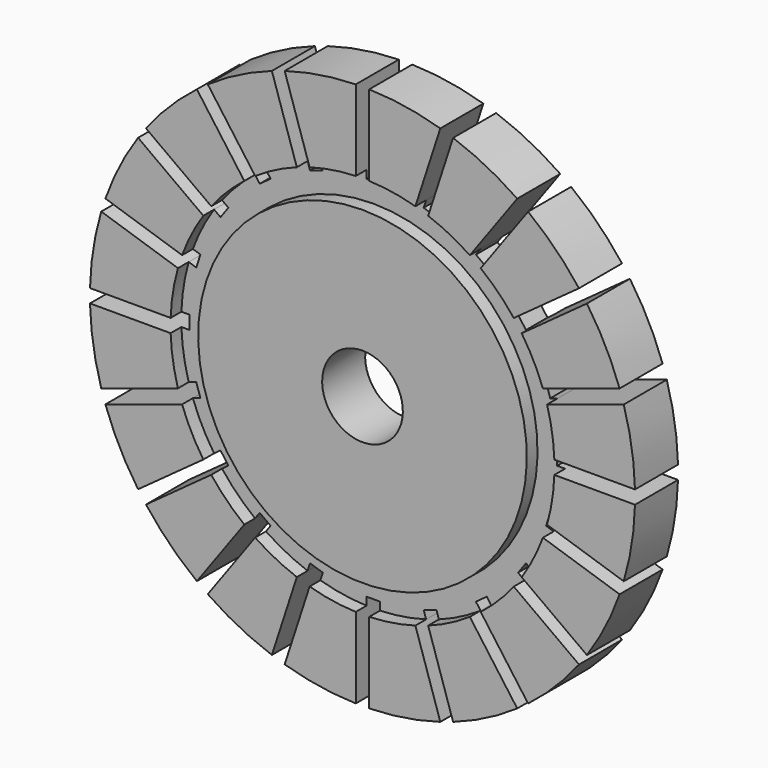
from build123d import *

# Parameters (mm, degrees)
F3_DEPTH = 20


with BuildPart() as f1:
    # F0 (on Right) → F1 (revolve)
    with BuildSketch(Plane.YZ):
        Polygon((-10, 15), (10, 15), (10, 61.11), (5, 61.11), (5, 71.394), (10, 71.394), (10, 101.374), (-10, 101.374), (-10, 71.394), (-5, 71.394), (-5, 61.11), (-10, 61.11), align=None)
    revolve(axis=Axis((0, -27.9462151229, 0), (0, -1, 0)))

    # F2 (on face) → F3 (cut, through all)
    with BuildSketch(Plane.XZ.offset(10)):
        with BuildLine():
            ThreePointArc((2.5, 101.343168867), (1.2500950523, 101.3662919237), (0, 101.374))
            ThreePointArc((0, 101.374), (-1.2500950523, 101.3662919237), (-2.5, 101.343168867))
            Line((-2.5, 101.343168867), (-2.5, 71.3502153886))
            ThreePointArc((-2.5, 71.3502153886), (0, 71.394), (2.5, 71.3502153886))
            Line((2.5, 71.3502153886), (2.5, 101.343168867))
        make_face()
        with BuildLine():
            ThreePointArc((2.5, 71.3502153886), (0, 71.394), (-2.5, 71.3502153886))
            Line((-2.5, 71.3502153886), (-2.5, 68.394))
            Line((-2.5, 68.394), (2.5, 68.394))
            Line((2.5, 68.394), (2.5, 71.3502153886))
        make_face()
        with BuildLine():
            ThreePointArc((31.3262855704, 96.4124043283), (30.1349942007, 96.7913735853), (28.939120153, 97.1556236189))
            Line((28.939120153, 97.1556236189), (19.6707878167, 68.6306297703))
            ThreePointArc((19.6707878167, 68.6306297703), (22.0619592964, 67.8997289244), (24.4260703981, 67.0855447985))
            Line((24.4260703981, 67.0855447985), (33.6944027344, 95.610538647))
            ThreePointArc((33.6944027344, 95.610538647), (32.5128163045, 96.0187723935), (31.3262855704, 96.4124043283))
        make_face()
        with BuildLine():
            ThreePointArc((24.4260703981, 67.0855447985), (22.0619592964, 67.8997289244), (19.6707878167, 68.6306297703))
            Line((19.6707878167, 68.6306297703), (18.7572670225, 65.8191018614))
            Line((18.7572670225, 65.8191018614), (23.512549604, 64.2740168896))
            Line((23.512549604, 64.2740168896), (24.4260703981, 67.0855447985))
        make_face()
        with BuildLine():
            Line((57.5454775947, 83.4578090079), (39.9160618674, 59.1929999324))
            ThreePointArc((39.9160618674, 59.1929999324), (41.9643403022, 57.7589592964), (43.9611468392, 56.254073671))
            Line((43.9611468392, 56.254073671), (61.5905625665, 80.5188827465))
            ThreePointArc((61.5905625665, 80.5188827465), (60.5929582622, 81.2722663953), (59.5861394373, 82.0132907702))
            ThreePointArc((59.5861394373, 82.0132907702), (58.5702619541, 82.741841233), (57.5454775947, 83.4578090079))
        make_face()
        with BuildLine():
            ThreePointArc((43.9611468392, 56.254073671), (41.9643403022, 57.7589592964), (39.9160618674, 59.1929999324))
            Line((39.9160618674, 59.1929999324), (38.1784420594, 56.801371444))
            Line((38.1784420594, 56.801371444), (42.2235270312, 53.8624451825))
            Line((42.2235270312, 53.8624451825), (43.9611468392, 56.254073671))
        make_face()
        with BuildLine():
            Line((80.5188827465, 61.5905625665), (56.254073671, 43.9611468392))
            ThreePointArc((56.254073671, 43.9611468392), (57.7589592964, 41.9643403022), (59.1929999324, 39.9160618674))
            Line((59.1929999324, 39.9160618674), (83.4578090079, 57.5454775947))
            ThreePointArc((83.4578090079, 57.5454775947), (82.7418413651, 58.5702617675), (82.0132910389, 59.5861390675))
            ThreePointArc((82.0132910389, 59.5861390675), (81.2722665319, 60.592958079), (80.5188827465, 61.5905625665))
        make_face()
        with BuildLine():
            ThreePointArc((59.1929999324, 39.9160618674), (57.7589592964, 41.9643403022), (56.254073671, 43.9611468392))
            Line((56.254073671, 43.9611468392), (53.8624451825, 42.2235270312))
            Line((53.8624451825, 42.2235270312), (56.801371444, 38.1784420594))
            Line((56.801371444, 38.1784420594), (59.1929999324, 39.9160618674))
        make_face()
        with BuildLine():
            Line((95.610538647, 33.6944027344), (67.0855447985, 24.4260703981))
            ThreePointArc((67.0855447985, 24.4260703981), (67.8997289244, 22.0619592964), (68.6306297703, 19.6707878167))
            Line((68.6306297703, 19.6707878167), (97.1556236189, 28.939120153))
            ThreePointArc((97.1556236189, 28.939120153), (96.7913735548, 30.1349942986), (96.412404265, 31.3262857653))
            ThreePointArc((96.412404265, 31.3262857653), (96.0187723606, 32.5128164016), (95.610538647, 33.6944027344))
        make_face()
        with BuildLine():
            ThreePointArc((68.6306297703, 19.6707878167), (67.8997289244, 22.0619592964), (67.0855447985, 24.4260703981))
            Line((67.0855447985, 24.4260703981), (64.2740168896, 23.512549604))
            Line((64.2740168896, 23.512549604), (65.8191018614, 18.7572670225))
            Line((65.8191018614, 18.7572670225), (68.6306297703, 19.6707878167))
        make_face()
        with BuildLine():
            Line((101.343168867, 2.5), (71.3502153886, 2.5))
            ThreePointArc((71.3502153886, 2.5), (71.3830530079, 1.2501916945), (71.394, 0))
            ThreePointArc((71.394, 0), (71.3830530079, -1.2501916945), (71.3502153886, -2.5))
            Line((71.3502153886, -2.5), (101.343168867, -2.5))
            ThreePointArc((101.343168867, -2.5), (101.3662919237, -1.2500950523), (101.374, 0))
            ThreePointArc((101.374, 0), (101.3662919237, 1.2500950523), (101.343168867, 2.5))
        make_face()
        with BuildLine():
            ThreePointArc((71.394, 0), (71.3830530079, 1.2501916945), (71.3502153886, 2.5))
            Line((71.3502153886, 2.5), (68.394, 2.5))
            Line((68.394, 2.5), (68.394, -2.5))
            Line((68.394, -2.5), (71.3502153886, -2.5))
            ThreePointArc((71.3502153886, -2.5), (71.3830530079, -1.2501916945), (71.394, 0))
        make_face()
        with BuildLine():
            Line((97.1556236189, -28.939120153), (68.6306297703, -19.6707878167))
            ThreePointArc((68.6306297703, -19.6707878167), (67.8997289244, -22.0619592964), (67.0855447985, -24.4260703981))
            Line((67.0855447985, -24.4260703981), (95.610538647, -33.6944027344))
            ThreePointArc((95.610538647, -33.6944027344), (96.0187714064, -32.5128192195), (96.4124024263, -31.3262914242))
            ThreePointArc((96.4124024263, -31.3262914242), (96.7913726704, -30.1349971392), (97.1556236189, -28.939120153))
        make_face()
        with BuildLine():
            ThreePointArc((67.0855447985, -24.4260703981), (67.8997289244, -22.0619592964), (68.6306297703, -19.6707878167))
            Line((68.6306297703, -19.6707878167), (65.8191018614, -18.7572670225))
            Line((65.8191018614, -18.7572670225), (64.2740168896, -23.512549604))
            Line((64.2740168896, -23.512549604), (67.0855447985, -24.4260703981))
        make_face()
        with BuildLine():
            Line((83.4578090079, -57.5454775947), (59.1929999324, -39.9160618674))
            ThreePointArc((59.1929999324, -39.9160618674), (57.7589592964, -41.9643403022), (56.254073671, -43.9611468392))
            Line((56.254073671, -43.9611468392), (80.5188827465, -61.5905625665))
            ThreePointArc((80.5188827465, -61.5905625665), (81.2722664798, -60.592958149), (82.0132909362, -59.5861392088))
            ThreePointArc((82.0132909362, -59.5861392088), (82.7418413147, -58.5702618388), (83.4578090079, -57.5454775947))
        make_face()
        with BuildLine():
            ThreePointArc((56.254073671, -43.9611468392), (57.7589592964, -41.9643403022), (59.1929999324, -39.9160618674))
            Line((59.1929999324, -39.9160618674), (56.801371444, -38.1784420594))
            Line((56.801371444, -38.1784420594), (53.8624451825, -42.2235270312))
            Line((53.8624451825, -42.2235270312), (56.254073671, -43.9611468392))
        make_face()
        with BuildLine():
            Line((61.5905625665, -80.5188827465), (43.9611468392, -56.254073671))
            ThreePointArc((43.9611468392, -56.254073671), (41.9643403022, -57.7589592964), (39.9160618674, -59.1929999324))
            Line((39.9160618674, -59.1929999324), (57.5454775947, -83.4578090079))
            ThreePointArc((57.5454775947, -83.4578090079), (58.5702621406, -82.741841101), (59.5861398072, -82.0132905015))
            ThreePointArc((59.5861398072, -82.0132905015), (60.5929584455, -81.2722662587), (61.5905625665, -80.5188827465))
        make_face()
        with BuildLine():
            ThreePointArc((39.9160618674, -59.1929999324), (41.9643403022, -57.7589592964), (43.9611468392, -56.254073671))
            Line((43.9611468392, -56.254073671), (42.2235270312, -53.8624451825))
            Line((42.2235270312, -53.8624451825), (38.1784420594, -56.801371444))
            Line((38.1784420594, -56.801371444), (39.9160618674, -59.1929999324))
        make_face()
        with BuildLine():
            Line((33.6944027344, -95.610538647), (24.4260703981, -67.0855447985))
            ThreePointArc((24.4260703981, -67.0855447985), (22.0619592964, -67.8997289244), (19.6707878167, -68.6306297703))
            Line((19.6707878167, -68.6306297703), (28.939120153, -97.1556236189))
            ThreePointArc((28.939120153, -97.1556236189), (30.1349942986, -96.7913735548), (31.3262857653, -96.412404265))
            ThreePointArc((31.3262857653, -96.412404265), (32.5128164016, -96.0187723606), (33.6944027344, -95.610538647))
        make_face()
        with BuildLine():
            ThreePointArc((19.6707878167, -68.6306297703), (22.0619592964, -67.8997289244), (24.4260703981, -67.0855447985))
            Line((24.4260703981, -67.0855447985), (23.512549604, -64.2740168896))
            Line((23.512549604, -64.2740168896), (18.7572670225, -65.8191018614))
            Line((18.7572670225, -65.8191018614), (19.6707878167, -68.6306297703))
        make_face()
        with BuildLine():
            ThreePointArc((2.5, -71.3502153886), (0, -71.394), (-2.5, -71.3502153886))
            Line((-2.5, -71.3502153886), (-2.5, -101.343168867))
            ThreePointArc((-2.5, -101.343168867), (-1.2500950523, -101.3662919237), (0, -101.374))
            ThreePointArc((0, -101.374), (1.2500950523, -101.3662919237), (2.5, -101.343168867))
            Line((2.5, -101.343168867), (2.5, -71.3502153886))
        make_face()
        with BuildLine():
            Line((-2.5, -68.394), (-2.5, -71.3502153886))
            ThreePointArc((-2.5, -71.3502153886), (0, -71.394), (2.5, -71.3502153886))
            Line((2.5, -71.3502153886), (2.5, -68.394))
            Line((2.5, -68.394), (-2.5, -68.394))
        make_face()
        with BuildLine():
            ThreePointArc((-19.6707878167, -68.6306297703), (-22.0619592964, -67.8997289244), (-24.4260703981, -67.0855447985))
            Line((-24.4260703981, -67.0855447985), (-33.6944027344, -95.610538647))
            ThreePointArc((-33.6944027344, -95.610538647), (-32.5128165172, -96.0187723215), (-31.3262859974, -96.4124041895))
            ThreePointArc((-31.3262859974, -96.4124041895), (-30.1349944151, -96.7913735185), (-28.939120153, -97.1556236189))
            Line((-28.939120153, -97.1556236189), (-19.6707878167, -68.6306297703))
        make_face()
        with BuildLine():
            Line((-23.512549604, -64.2740168896), (-24.4260703981, -67.0855447985))
            ThreePointArc((-24.4260703981, -67.0855447985), (-22.0619592964, -67.8997289244), (-19.6707878167, -68.6306297703))
            Line((-19.6707878167, -68.6306297703), (-18.7572670225, -65.8191018614))
            Line((-18.7572670225, -65.8191018614), (-23.512549604, -64.2740168896))
        make_face()
        with BuildLine():
            ThreePointArc((-39.9160618674, -59.1929999324), (-41.9643403022, -57.7589592964), (-43.9611468392, -56.254073671))
            Line((-43.9611468392, -56.254073671), (-61.5905625665, -80.5188827465))
            ThreePointArc((-61.5905625665, -80.5188827465), (-60.592958219, -81.2722664276), (-59.58613935, -82.0132908336))
            ThreePointArc((-59.58613935, -82.0132908336), (-58.57026191, -82.7418412642), (-57.5454775947, -83.4578090079))
            Line((-57.5454775947, -83.4578090079), (-39.9160618674, -59.1929999324))
        make_face()
        with BuildLine():
            Line((-42.2235270312, -53.8624451825), (-43.9611468392, -56.254073671))
            ThreePointArc((-43.9611468392, -56.254073671), (-41.9643403022, -57.7589592964), (-39.9160618674, -59.1929999324))
            Line((-39.9160618674, -59.1929999324), (-38.1784420594, -56.801371444))
            Line((-38.1784420594, -56.801371444), (-42.2235270312, -53.8624451825))
        make_face()
        with BuildLine():
            ThreePointArc((-56.254073671, -43.9611468392), (-57.7589592964, -41.9643403022), (-59.1929999324, -39.9160618674))
            Line((-59.1929999324, -39.9160618674), (-83.4578090079, -57.5454775947))
            ThreePointArc((-83.4578090079, -57.5454775947), (-82.741841233, -58.5702619541), (-82.0132907702, -59.5861394373))
            ThreePointArc((-82.0132907702, -59.5861394373), (-81.2722663953, -60.5929582622), (-80.5188827465, -61.5905625665))
            Line((-80.5188827465, -61.5905625665), (-56.254073671, -43.9611468392))
        make_face()
        with BuildLine():
            Line((-56.801371444, -38.1784420594), (-59.1929999324, -39.9160618674))
            ThreePointArc((-59.1929999324, -39.9160618674), (-57.7589592964, -41.9643403022), (-56.254073671, -43.9611468392))
            Line((-56.254073671, -43.9611468392), (-53.8624451825, -42.2235270312))
            Line((-53.8624451825, -42.2235270312), (-56.801371444, -38.1784420594))
        make_face()
        with BuildLine():
            ThreePointArc((-67.0855447985, -24.4260703981), (-67.8997289244, -22.0619592964), (-68.6306297703, -19.6707878167))
            Line((-68.6306297703, -19.6707878167), (-97.1556236189, -28.939120153))
            ThreePointArc((-97.1556236189, -28.939120153), (-96.7913735055, -30.1349944569), (-96.4124041625, -31.3262860807))
            ThreePointArc((-96.4124041625, -31.3262860807), (-96.0187723074, -32.5128165586), (-95.610538647, -33.6944027344))
            Line((-95.610538647, -33.6944027344), (-67.0855447985, -24.4260703981))
        make_face()
        with BuildLine():
            Line((-65.8191018614, -18.7572670225), (-68.6306297703, -19.6707878167))
            ThreePointArc((-68.6306297703, -19.6707878167), (-67.8997289244, -22.0619592964), (-67.0855447985, -24.4260703981))
            Line((-67.0855447985, -24.4260703981), (-64.2740168896, -23.512549604))
            Line((-64.2740168896, -23.512549604), (-65.8191018614, -18.7572670225))
        make_face()
        with BuildLine():
            ThreePointArc((-71.3502153886, -2.5), (-71.394, 0), (-71.3502153886, 2.5))
            Line((-71.3502153886, 2.5), (-101.343168867, 2.5))
            ThreePointArc((-101.343168867, 2.5), (-101.3662919237, 1.2500950523), (-101.374, 0))
            ThreePointArc((-101.374, 0), (-101.3662919237, -1.2500950523), (-101.343168867, -2.5))
            Line((-101.343168867, -2.5), (-71.3502153886, -2.5))
        make_face()
        with BuildLine():
            Line((-68.394, 2.5), (-71.3502153886, 2.5))
            ThreePointArc((-71.3502153886, 2.5), (-71.394, 0), (-71.3502153886, -2.5))
            Line((-71.3502153886, -2.5), (-68.394, -2.5))
            Line((-68.394, -2.5), (-68.394, 2.5))
        make_face()
        with BuildLine():
            ThreePointArc((-68.6306297703, 19.6707878167), (-67.8997289244, 22.0619592964), (-67.0855447985, 24.4260703981))
            Line((-67.0855447985, 24.4260703981), (-95.610538647, 33.6944027344))
            ThreePointArc((-95.610538647, 33.6944027344), (-96.0187723606, 32.5128164016), (-96.412404265, 31.3262857653))
            ThreePointArc((-96.412404265, 31.3262857653), (-96.7913735548, 30.1349942986), (-97.1556236189, 28.939120153))
            Line((-97.1556236189, 28.939120153), (-68.6306297703, 19.6707878167))
        make_face()
        with BuildLine():
            Line((-64.2740168896, 23.512549604), (-67.0855447985, 24.4260703981))
            ThreePointArc((-67.0855447985, 24.4260703981), (-67.8997289244, 22.0619592964), (-68.6306297703, 19.6707878167))
            Line((-68.6306297703, 19.6707878167), (-65.8191018614, 18.7572670225))
            Line((-65.8191018614, 18.7572670225), (-64.2740168896, 23.512549604))
        make_face()
        with BuildLine():
            ThreePointArc((-59.1929999324, 39.9160618674), (-57.7589592964, 41.9643403022), (-56.254073671, 43.9611468392))
            Line((-56.254073671, 43.9611468392), (-80.5188827465, 61.5905625665))
            ThreePointArc((-80.5188827465, 61.5905625665), (-81.2722664798, 60.592958149), (-82.0132909362, 59.5861392088))
            ThreePointArc((-82.0132909362, 59.5861392088), (-82.7418413147, 58.5702618388), (-83.4578090079, 57.5454775947))
            Line((-83.4578090079, 57.5454775947), (-59.1929999324, 39.9160618674))
        make_face()
        with BuildLine():
            Line((-53.8624451825, 42.2235270312), (-56.254073671, 43.9611468392))
            ThreePointArc((-56.254073671, 43.9611468392), (-57.7589592964, 41.9643403022), (-59.1929999324, 39.9160618674))
            Line((-59.1929999324, 39.9160618674), (-56.801371444, 38.1784420594))
            Line((-56.801371444, 38.1784420594), (-53.8624451825, 42.2235270312))
        make_face()
        with BuildLine():
            ThreePointArc((-43.9611468392, 56.254073671), (-41.9643403022, 57.7589592964), (-39.9160618674, 59.1929999324))
            Line((-39.9160618674, 59.1929999324), (-57.5454775947, 83.4578090079))
            ThreePointArc((-57.5454775947, 83.4578090079), (-58.5702618388, 82.7418413147), (-59.5861392088, 82.0132909362))
            ThreePointArc((-59.5861392088, 82.0132909362), (-60.592958149, 81.2722664798), (-61.5905625665, 80.5188827465))
            Line((-61.5905625665, 80.5188827465), (-43.9611468392, 56.254073671))
        make_face()
        with BuildLine():
            Line((-38.1784420594, 56.801371444), (-39.9160618674, 59.1929999324))
            ThreePointArc((-39.9160618674, 59.1929999324), (-41.9643403022, 57.7589592964), (-43.9611468392, 56.254073671))
            Line((-43.9611468392, 56.254073671), (-42.2235270312, 53.8624451825))
            Line((-42.2235270312, 53.8624451825), (-38.1784420594, 56.801371444))
        make_face()
        with BuildLine():
            Line((-19.6707878167, 68.6306297703), (-28.939120153, 97.1556236189))
            ThreePointArc((-28.939120153, 97.1556236189), (-30.1349940336, 96.7913736373), (-31.3262852375, 96.4124044365))
            ThreePointArc((-31.3262852375, 96.4124044365), (-32.5128161387, 96.0187724496), (-33.6944027344, 95.610538647))
            Line((-33.6944027344, 95.610538647), (-24.4260703981, 67.0855447985))
            ThreePointArc((-24.4260703981, 67.0855447985), (-22.0619592964, 67.8997289244), (-19.6707878167, 68.6306297703))
        make_face()
        with BuildLine():
            Line((-18.7572670225, 65.8191018614), (-19.6707878167, 68.6306297703))
            ThreePointArc((-19.6707878167, 68.6306297703), (-22.0619592964, 67.8997289244), (-24.4260703981, 67.0855447985))
            Line((-24.4260703981, 67.0855447985), (-23.512549604, 64.2740168896))
            Line((-23.512549604, 64.2740168896), (-18.7572670225, 65.8191018614))
        make_face()
    extrude(amount=-F3_DEPTH, mode=Mode.SUBTRACT)


solid = f1.part
